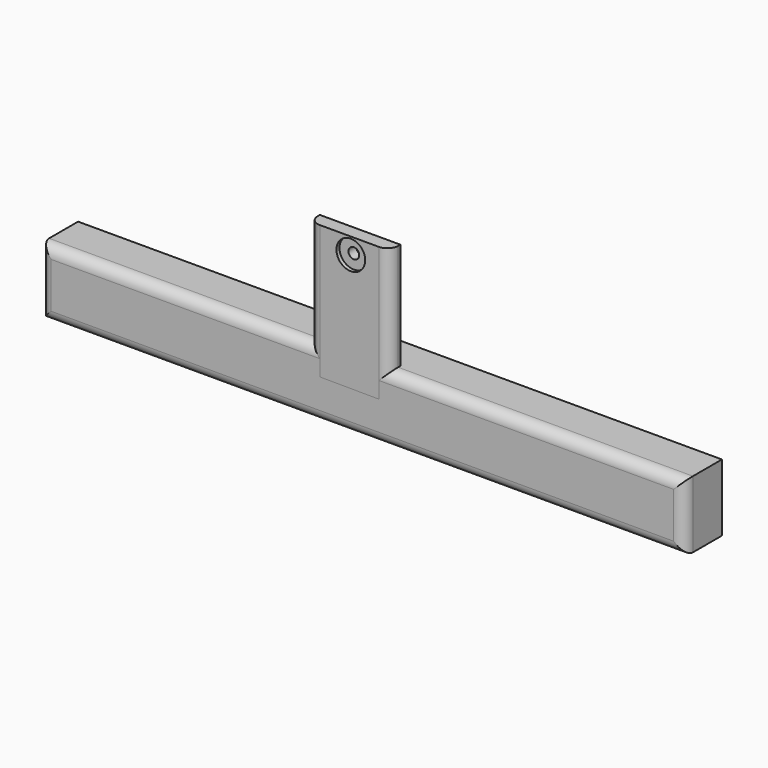
from build123d import *

# Parameters (mm, degrees)
F0_W     = 304.8
F0_H     = 31.75
F1_DEPTH = 22.225
F3_DEPTH = 6.35
F4_R     = 2.54
F5_DEPTH = 25.4
F4_R_2   = 6.796471
F6_DEPTH = 1.778
F9_DEPTH = 15.24
F10_R    = 5.08
F10_2_R  = 5.08


with BuildPart() as f1:
    # F0 (on Front) → F1 (new body)
    with BuildSketch(Plane.XZ):
        with Locations((-2.180368, 1.324904)):
            Rectangle(F0_W, F0_H)
    extrude(amount=-F1_DEPTH)

    # F8 (on offset) → F9 (join)
    with BuildSketch(Plane.YZ.offset(-15.24)):
        Polygon((17.156105, 17.160587), (6.436161, 28.554743), (6.436161, 17.160587), align=None)
    extrude(amount=F9_DEPTH)

    # F10#2
    f10_2_edges = [f1.edges().sort_by_distance(p)[0] for p in [
        (-2.180368, 0, -14.550096),
        (-2.180368, 0, 17.199904),
        (150.219632, 0, 1.324904),
        (-154.580368, 0, 1.324904),
    ]]
    fillet(f10_2_edges, radius=F10_2_R)


with BuildPart() as f3:
    # F2 (on Front) → F3 (new body)
    with BuildSketch(Plane.XZ):
        Polygon((10.673112, 67.800656), (-27.426888, 67.800656), (-27.426888, 4.553341), (10.673112, 4.300656), align=None)
    extrude(amount=-F3_DEPTH)

    # F4 (on Front) → F5 (cut)
    with BuildSketch(Plane.XZ):
        with Locations((-7.678686, 60.102299)):
            Circle(F4_R)
    extrude(amount=-F5_DEPTH, mode=Mode.SUBTRACT)

    # F4 (on Front) → F6 (cut)
    with BuildSketch(Plane.XZ):
        with Locations((-7.678686, 60.102299)):
            Circle(F4_R_2)
        with Locations((-7.678686, 60.102299)):
            Circle(F4_R, mode=Mode.SUBTRACT)
    extrude(amount=-F6_DEPTH, mode=Mode.SUBTRACT)

    # F10
    f10_edges = [f3.edges().sort_by_distance(p)[0] for p in [
        (10.673112, 0, 36.050656),
        (-27.426888, 0, 36.176998),
    ]]
    fillet(f10_edges, radius=F10_R)


solid = Compound([f1.part, f3.part])
